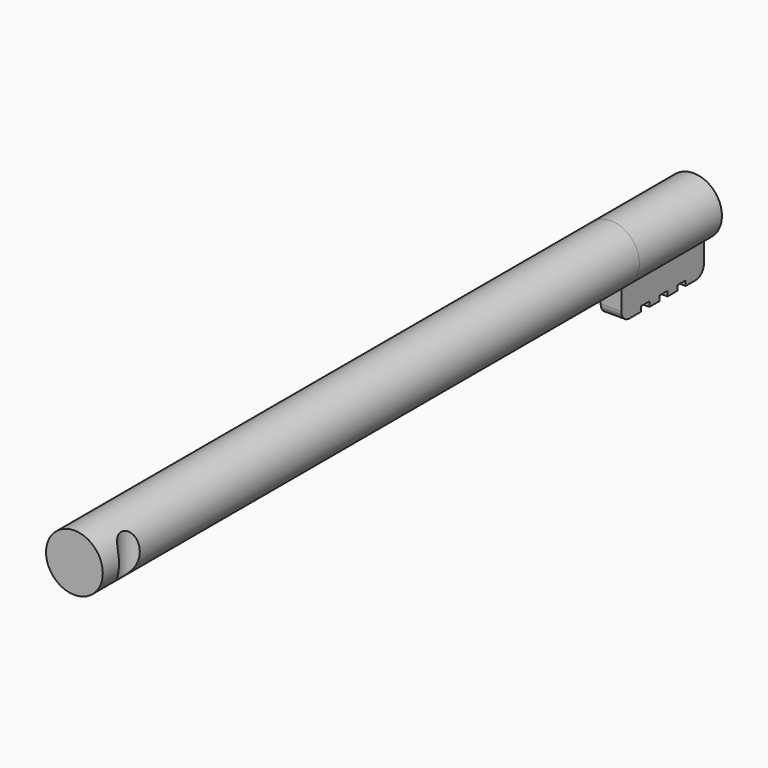
from build123d import *

# Parameters (mm, degrees)
PAD003_DEPTH    = 10
SKETCH021_R     = 2.75
PAD009_DEPTH    = 65
SKETCH022_R     = 1.385036
POCKET011_DEPTH = 9
SKETCH043_W     = 2.1
SKETCH043_H     = 1
POCKET021_DEPTH = 0.48
FILLET007_R     = 1


with BuildPart() as part:
    # Sketch007 → Pad003 (new body)
    with BuildSketch(Plane(origin=(-20, 60, -6), x_dir=(1, 0, 0), z_dir=(0, -1, 0))):
        with BuildLine():
            ThreePointArc((44.8, 1.638262), (43.8, 6.95), (42.8, 1.638262))
            Line((42.8, -1.461738), (42.8, 1.638262))
            Line((44.8, -1.461738), (42.8, -1.461738))
            Line((44.8, 1.638262), (44.8, -1.461738))
        make_face()
    extrude(amount=PAD003_DEPTH)

    # Sketch021 (on Face6 of Pad003) → Pad009 (join)
    with BuildSketch(Plane.XZ.offset(-50)):
        with Locations((23.8, -1.8)):
            Circle(SKETCH021_R)
    extrude(amount=PAD009_DEPTH)

    # Sketch022 → Pocket011 (cut)
    with BuildSketch(Plane.XY.offset(2)):
        with Locations((27.12612, -11.774689)):
            Circle(SKETCH022_R)
    extrude(amount=-POCKET011_DEPTH, mode=Mode.SUBTRACT)

    # Sketch043 (on Face6 of Pocket011) → Pocket021 (cut)
    with BuildSketch(Plane(origin=(0, 0, -7.461738), x_dir=(1, 0, 0), z_dir=(0, 0, -1))):
        with Locations((23.804798, -57.3)):
            Rectangle(SKETCH043_W, SKETCH043_H)
        with Locations((23.804798, -52.9)):
            Rectangle(SKETCH043_W, SKETCH043_H)
        with Locations((23.804798, -55.1)):
            Rectangle(SKETCH043_W, SKETCH043_H)
    extrude(amount=-POCKET021_DEPTH, mode=Mode.SUBTRACT)

    # Fillet007
    fillet007_edges = [part.edges().sort_by_distance(p)[0] for p in [
        (23.8, 60, -7.461738),
        (23.8, 50, -7.461738),
    ]]
    fillet(fillet007_edges, radius=FILLET007_R)


with BuildPart() as part_1:
    # Body002 placement: moved
    add(part.part.moved(Location((0, -0.4, -1.5))))


solid = part_1.part
